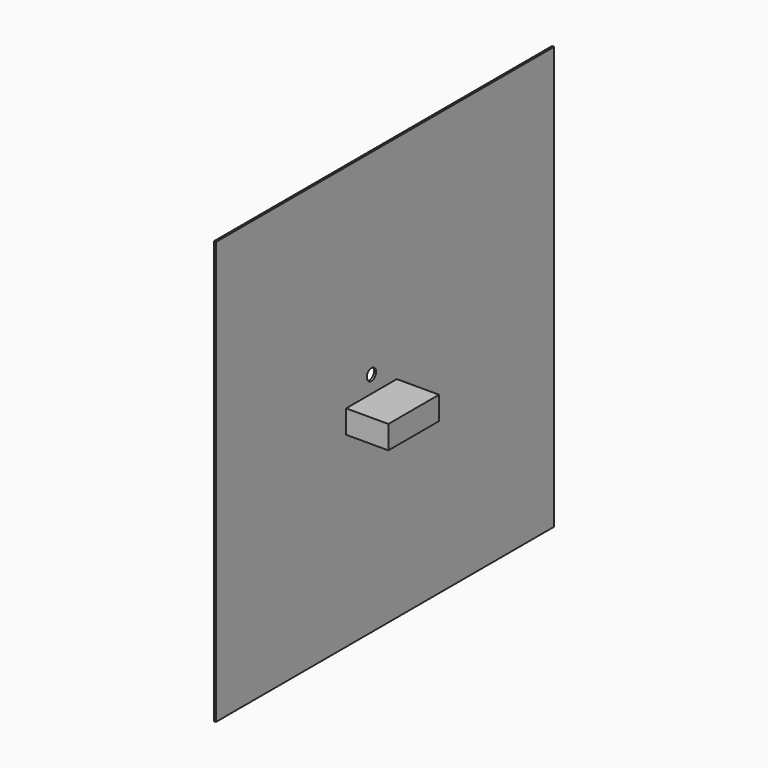
from build123d import *

# Parameters (mm, degrees)
F0_W     = 200
F0_H     = 200
F1_DEPTH = 1
F2_W     = 30
F2_H     = 11
F3_DEPTH = 20
F4_R     = 2.75
F5_DEPTH = 25


with BuildPart() as f1:
    # F0 (on Right) → F1 (new body)
    with BuildSketch(Plane.YZ):
        with Locations((8.036284, 6.124369)):
            Rectangle(F0_W, F0_H)
    extrude(amount=F1_DEPTH)

    # F2 (on face) → F3 (join)
    with BuildSketch(Plane.YZ.offset(1)):
        Rectangle(F2_W, F2_H)
    extrude(amount=F3_DEPTH)

    # F4 (on face) → F5 (cut)
    with BuildSketch(Plane.YZ.offset(1)):
        with Locations((0, 13.5)):
            Circle(F4_R)
    extrude(amount=-F5_DEPTH, mode=Mode.SUBTRACT)


solid = f1.part
